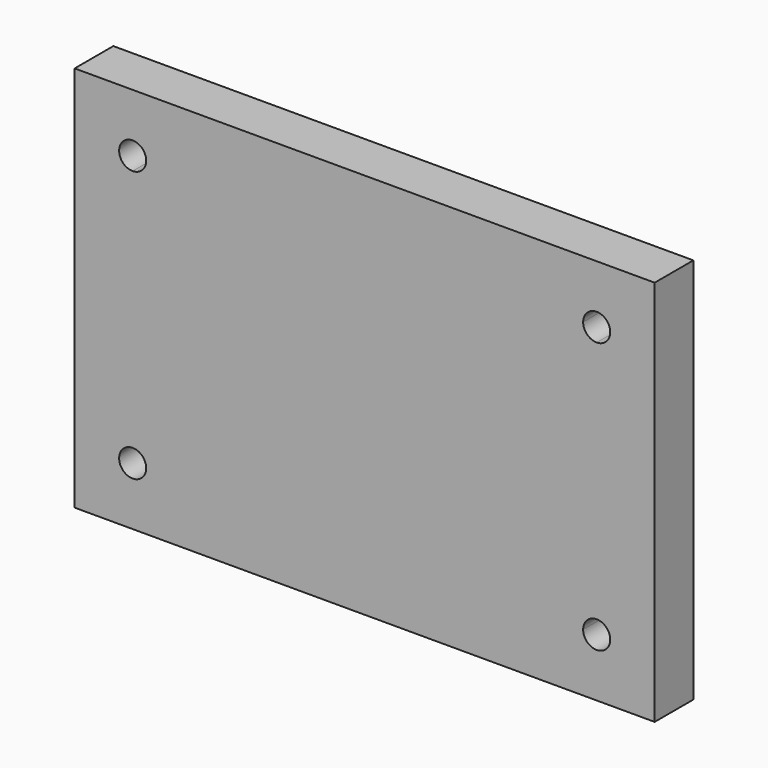
from build123d import *

# Parameters (mm, degrees)
F0_W     = 300
F0_H     = 200
F1_DEPTH = 25


with BuildPart() as f1:
    # F0 (on Front) → F1 (new body)
    with BuildSketch(Plane.XZ):
        Rectangle(F0_W, F0_H)
        with BuildLine():
            ThreePointArc((-120, 63), (-124.9497474683, 74.9497474683), (-113, 70))
            Line((-113, 70), (113, 70))
            ThreePointArc((113, 70), (120, 77), (127, 70))
            ThreePointArc((127, 70), (124.9497474683, 65.0502525317), (120, 63))
            Line((120, 63), (120, -63))
            ThreePointArc((120, -63), (124.9497474683, -65.0502525317), (127, -70))
            ThreePointArc((127, -70), (120, -77), (113, -70))
            Line((113, -70), (-113, -70))
            ThreePointArc((-113, -70), (-124.9497474683, -74.9497474683), (-120, -63))
            Line((-120, -63), (-120, 63))
        make_face(mode=Mode.SUBTRACT)
        with BuildLine():
            Line((113, 70), (-113, 70))
            ThreePointArc((-113, 70), (-115.0502525317, 65.0502525317), (-120, 63))
            Line((-120, 63), (-120, -63))
            ThreePointArc((-120, -63), (-115.0502525317, -65.0502525317), (-113, -70))
            Line((-113, -70), (113, -70))
            ThreePointArc((113, -70), (115.0502525317, -65.0502525317), (120, -63))
            Line((120, -63), (120, 63))
            ThreePointArc((120, 63), (115.0502525317, 65.0502525317), (113, 70))
        make_face()
    extrude(amount=F1_DEPTH)


solid = f1.part
